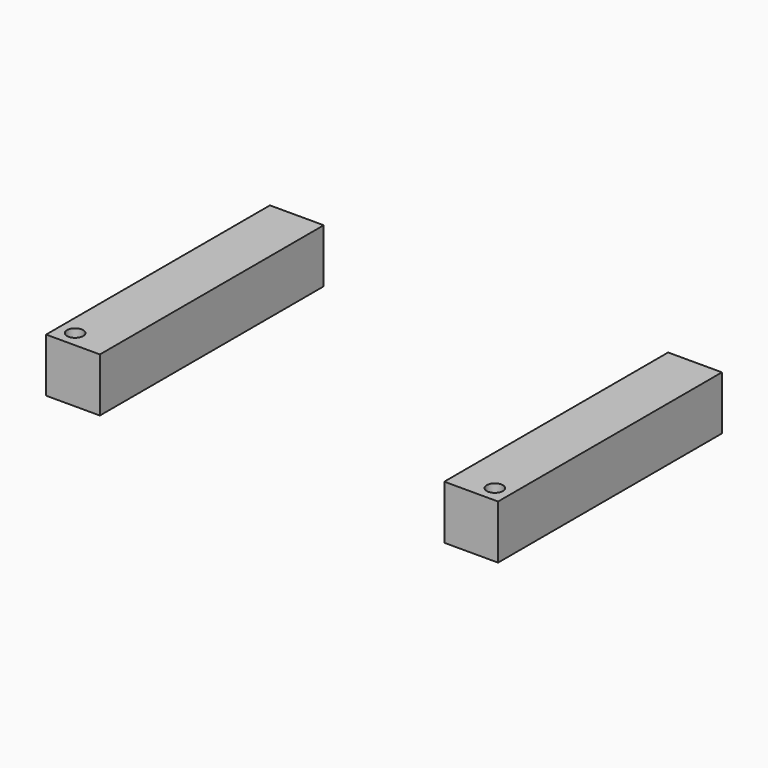
from build123d import *

# Parameters (mm, degrees)
CYLINDER533_R     = 1.5
CYLINDER533_DEPTH = 100
CYLINDER532_R     = 1.5
CYLINDER532_DEPTH = 100
BOX137_W          = 10
BOX137_H          = 52
BOX137_DEPTH      = 10
BOX136_W          = 10
BOX136_H          = 52
BOX136_DEPTH      = 10


with BuildPart() as obj1:
    # Cylinder533 → Cylinder533 (new body)
    with BuildSketch(Plane(origin=(39, -21, 0), x_dir=(1, 0, 0), z_dir=(0, 0, 1))):
        Circle(CYLINDER533_R)
    extrude(amount=CYLINDER533_DEPTH)


with BuildPart() as compound321:
    # Cylinder532 → Cylinder532 (new body)
    with BuildSketch(Plane(origin=(-39, -21, 0), x_dir=(1, 0, 0), z_dir=(0, 0, 1))):
        Circle(CYLINDER532_R)
    extrude(amount=CYLINDER532_DEPTH)

    # Compound321: union obj1
    add(obj1.part)


with BuildPart() as krychle137:
    # Box137 → Box137 (new body)
    with BuildSketch(Plane(origin=(-42, -24, 0), x_dir=(1, 0, 0), z_dir=(0, 0, 1))):
        with Locations((5, 26)):
            Rectangle(BOX137_W, BOX137_H)
    extrude(amount=BOX137_DEPTH)


with BuildPart() as cut:
    # Box136 → Box136 (new body)
    with BuildSketch(Plane(origin=(32, -24, 0), x_dir=(1, 0, 0), z_dir=(0, 0, 1))):
        with Locations((5, 26)):
            Rectangle(BOX136_W, BOX136_H)
    extrude(amount=BOX136_DEPTH)

    # Compound: union Krychle137
    add(krychle137.part)

    # Cut: cut Compound321
    add(compound321.part, mode=Mode.SUBTRACT)


solid = cut.part
